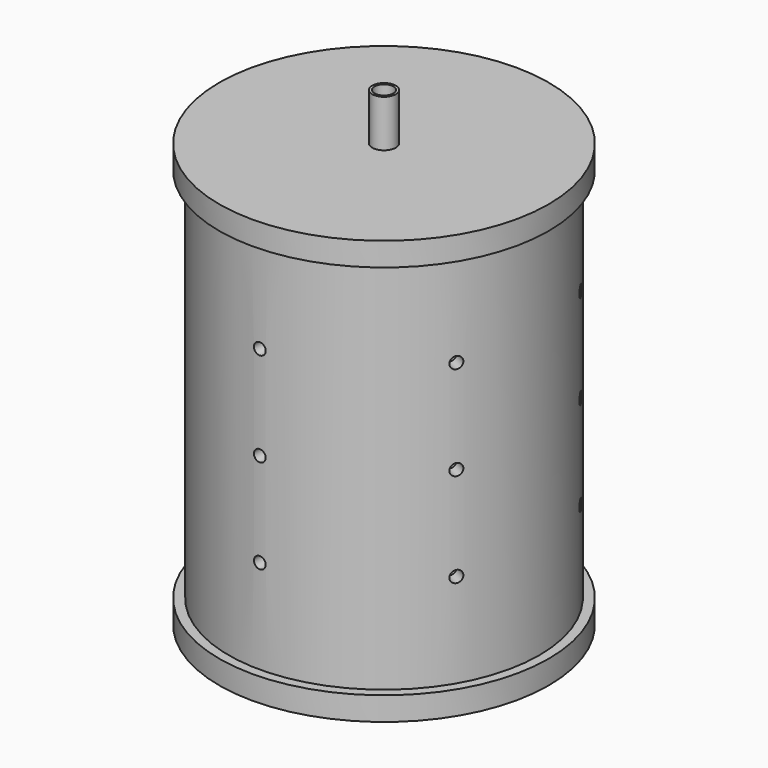
from build123d import *

# Parameters (mm, degrees)
SKETCH_R           = 83.82
SKETCH_R_2         = 76.2
PAD_DEPTH          = 203.2
SKETCH004_R        = 3.175
POCKET_DEPTH       = 708.309844
POCKET_DEPTH_BACK  = 708.309844
POLARPATTERN_COUNT = 3
SKETCH001_R        = 88.9
PAD001_DEPTH       = 12.7
SKETCH003_R        = 6.35
SKETCH003_R_2      = 5.08
PAD003_DEPTH       = 228.6
SKETCH005_R        = 88.9
PAD004_DEPTH       = 12.7
SKETCH006_R        = 6.35
POCKET001_DEPTH    = 12.701


with BuildPart() as obj1:
    # Sketch → Pad (new body)
    with BuildSketch(Plane.XY):
        Circle(SKETCH_R)
        Circle(SKETCH_R_2, mode=Mode.SUBTRACT)
    extrude(amount=PAD_DEPTH)

    # Sketch004 → Pocket (cut, two sides)
    with BuildSketch(Plane.XZ) as pocket_sk:
        with Locations((0, 50.8)):
            Circle(SKETCH004_R)
        with Locations((0, 152.4)):
            Circle(SKETCH004_R)
        with Locations((0, 101.6)):
            Circle(SKETCH004_R)
    pocket = extrude(amount=-POCKET_DEPTH, mode=Mode.SUBTRACT) + extrude(pocket_sk.sketch, amount=POCKET_DEPTH_BACK, mode=Mode.SUBTRACT)

    # PolarPattern: Pocket ×3 about axis
    polarpattern_axis = Axis((0, 0, 0), (0, 0, 1))
    for i in range(1, POLARPATTERN_COUNT):
        add(pocket.rotate(polarpattern_axis, i * 360 / POLARPATTERN_COUNT), mode=Mode.SUBTRACT)


with BuildPart() as bottomcap:
    # Sketch001 → Pad001 (new body)
    with BuildSketch(Plane.XY):
        Circle(SKETCH001_R)
    extrude(amount=PAD001_DEPTH)


with BuildPart() as bottomcap_1:
    # Body001 placement: moved
    add(bottomcap.part.moved(Location((0, 0, -12.7))))


with BuildPart() as body003:
    # Sketch003 → Pad003 (new body)
    with BuildSketch(Plane.XY):
        Circle(SKETCH003_R)
        Circle(SKETCH003_R_2, mode=Mode.SUBTRACT)
    extrude(amount=PAD003_DEPTH)


with BuildPart() as body003_1:
    # Body003 placement: moved
    add(body003.part.moved(Location((0, 0, 12.7))))


with BuildPart() as topcap:
    # Sketch005 → Pad004 (new body)
    with BuildSketch(Plane.XY):
        Circle(SKETCH005_R)
    extrude(amount=PAD004_DEPTH)

    # Sketch006 (on Face3 of Pad004) → Pocket001 (cut, through all)
    with BuildSketch(Plane.XY.offset(12.7)):
        Circle(SKETCH006_R)
    extrude(amount=-POCKET001_DEPTH, mode=Mode.SUBTRACT)


with BuildPart() as topcap_1:
    # Body004 placement: moved
    add(topcap.part.moved(Location((0, 0, 203.2))))


solid = Compound([obj1.part, bottomcap_1.part, body003_1.part, topcap_1.part])
